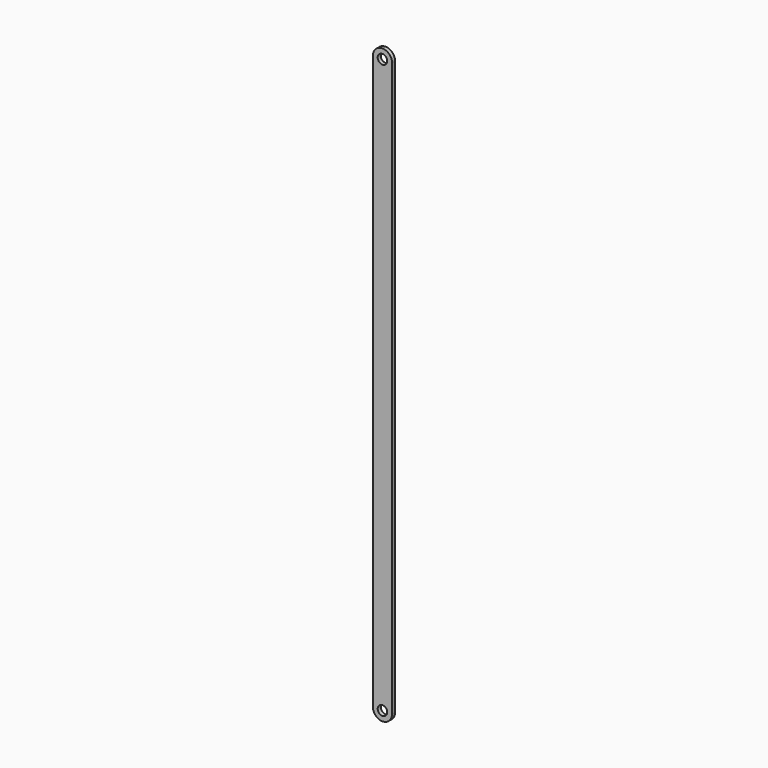
from build123d import *

# Parameters (mm, degrees)
F1_DEPTH = 2
F2_D     = 5
F3_D     = 5


with BuildPart() as f1:
    # F0 (on Front) → F1 (new body)
    with BuildSketch(Plane.XZ):
        with BuildLine():
            ThreePointArc((0, 160), (-3.5355339059, 158.5355339059), (-5, 155))
            Line((-5, 155), (-5, -145))
            ThreePointArc((-5, -145), (-3.5355339059, -148.5355339059), (0, -150))
            ThreePointArc((0, -150), (3.5355339059, -148.5355339059), (5, -145))
            Line((5, -145), (5, 155))
            ThreePointArc((5, 155), (3.5355339059, 158.5355339059), (0, 160))
        make_face()
    extrude(amount=F1_DEPTH)

    # F2 (through all)
    with Locations(Plane(origin=(0, 0, 0), x_dir=(1, 0, 0), z_dir=(0, 1, 0))):
        with Locations((0, -155)):
            Hole(F2_D / 2)

    # F3 (through all)
    with Locations(Plane(origin=(0, 0, 0), x_dir=(1, 0, 0), z_dir=(0, 1, 0))):
        with Locations((0, 145)):
            Hole(F3_D / 2)


solid = f1.part
